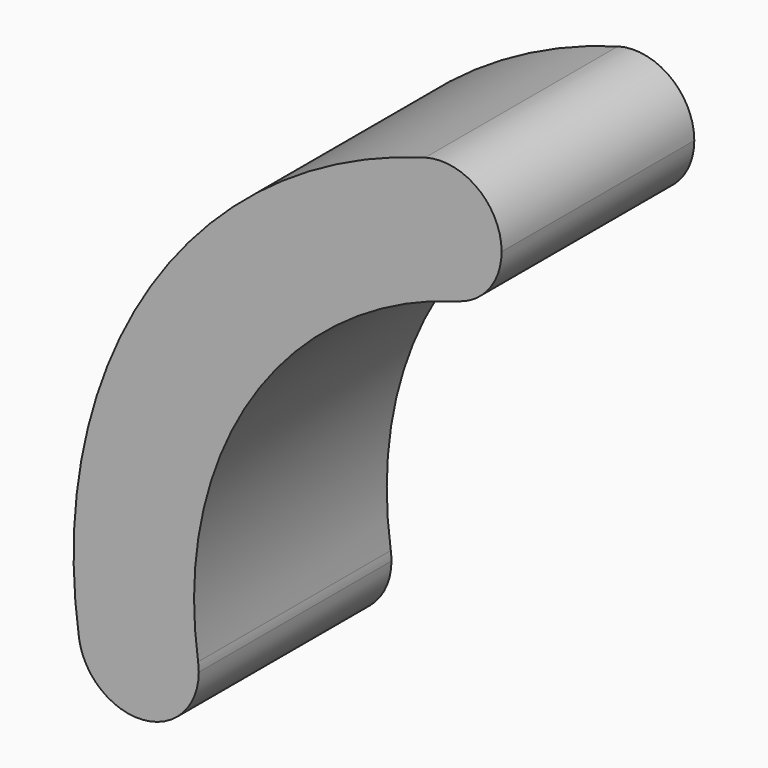
from build123d import *

# Parameters (mm, degrees)
F0_R     = 7.5
F2_DEPTH = 50


with BuildPart() as f2:
    # F0 (on Front) → F2 (new body)
    with BuildSketch(Plane.XZ):
        with BuildLine():
            ThreePointArc((-20.2771231268, 72.2069129495), (-35.691129754, 80.8618774554), (-27.0361647105, 96.2758837807))
            ThreePointArc((-27.0361647105, 96.2758837807), (-83.9922641187, 54.2706142236), (-98.8813425816, -14.9157664658))
            ThreePointArc((-98.8813425816, -14.9157664658), (-88.3856453807, -0.6911276961), (-74.161006875, -11.1868252548))
            ThreePointArc((-74.161006875, -11.1868252548), (-62.9941980859, 40.7029606726), (-20.2771231268, 72.2069129495))
        make_face()
        with BuildLine():
            ThreePointArc((-11.1566443384, 84.2413982472), (-16.1066113799, 94.2036772197), (-27.0361647105, 96.2758837807))
            ThreePointArc((-27.0361647105, 96.2758837807), (-35.691129754, 80.8618774554), (-20.2771231268, 72.2069129495))
            ThreePointArc((-20.2771231268, 72.2069129495), (-13.6943651026, 76.6913656362), (-11.1566443384, 84.2413982472))
        make_face()
        with Locations((-23.6566443384, 84.2413982472)):
            Circle(F0_R, mode=Mode.SUBTRACT)
        with BuildLine():
            ThreePointArc((-74.161006875, -11.1868252548), (-88.3856453807, -0.6911276961), (-98.8813425816, -14.9157664658))
            ThreePointArc((-98.8813425816, -14.9157664658), (-85.5863211984, -25.5162884811), (-74.0211747752, -13.0512955493))
            ThreePointArc((-74.0211747752, -13.0512955493), (-74.0561818199, -12.1164422861), (-74.161006875, -11.1868252548))
        make_face()
        with Locations((-86.5211747752, -13.0512955493)):
            Circle(F0_R, mode=Mode.SUBTRACT)
        with Locations((-23.6566443384, 84.2413982472)):
            Circle(F0_R)
        with Locations((-86.5211747752, -13.0512955493)):
            Circle(F0_R)
    extrude(amount=F2_DEPTH)


solid = f2.part
